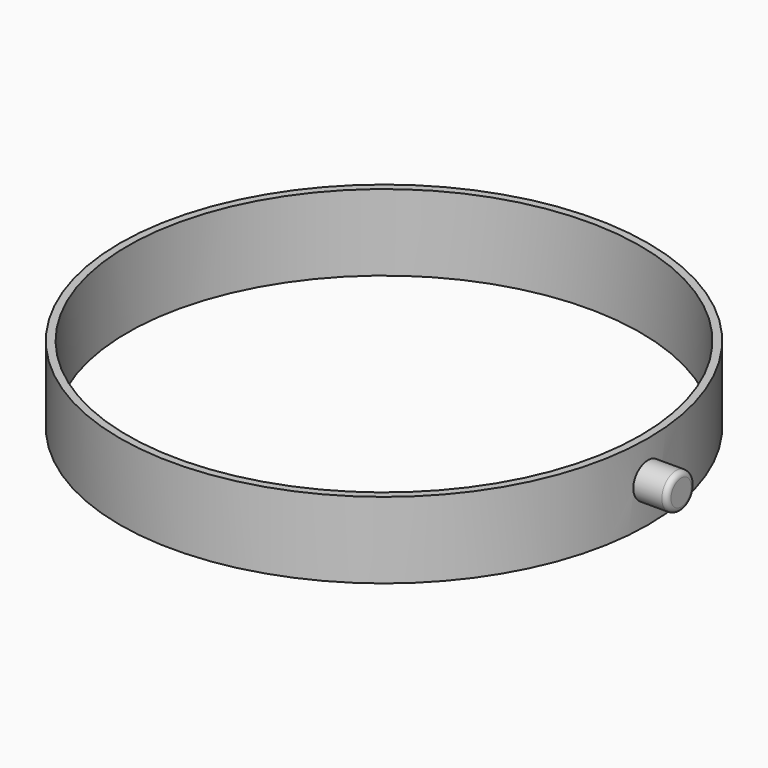
from build123d import *

# Parameters (mm, degrees)
F0_R     = 52
F0_R_2   = 50.5
F1_DEPTH = 15
F3_R     = 3.5
F4_DEPTH = 7
F5_R     = 1


with BuildPart() as f1:
    # F0 (on Top) → F1 (new body)
    with BuildSketch(Plane.XY):
        Circle(F0_R)
        Circle(F0_R_2, mode=Mode.SUBTRACT)
    extrude(amount=F1_DEPTH)

    # F3 (on offset) → F4 (join)
    with BuildSketch(Plane.YZ.offset(51.5)):
        with Locations((0, 7.729115)):
            Circle(F3_R)
    extrude(amount=F4_DEPTH)

    # F5
    f5_edges = [f1.edges().sort_by_distance(p)[0] for p in [
        (58.5, -3.5, 7.729115),
    ]]
    fillet(f5_edges, radius=F5_R)


solid = f1.part
